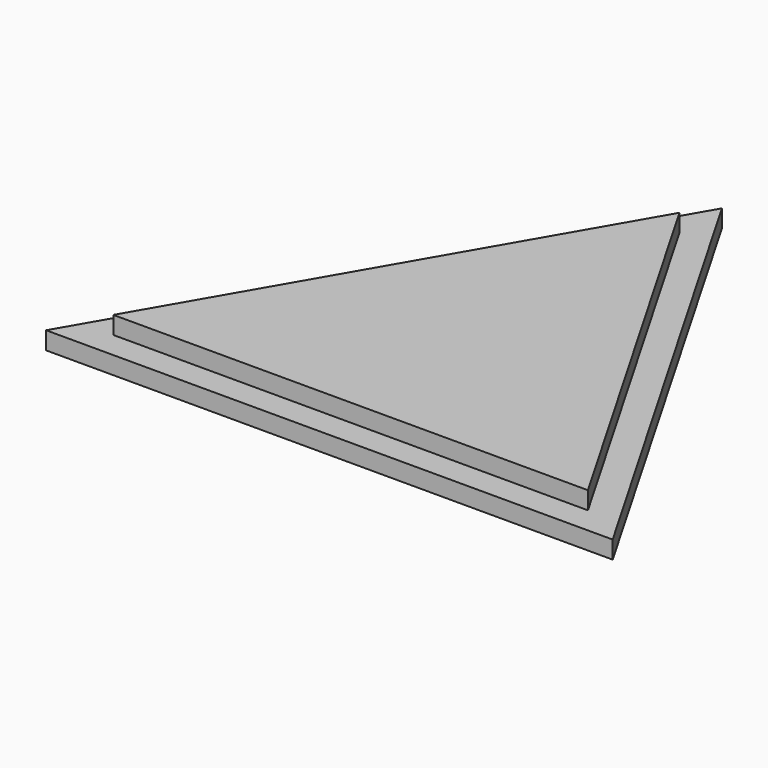
from build123d import *

# Parameters (mm, degrees)
F1_DEPTH = 4
F2_DEPTH = 4
F3_R     = 0.3756576168
F3_R_2   = 0.1964100376
F4_DEPTH = 3
F3_R_3   = 0.635
F3_R_4   = 1.048986259
F5_DEPTH = 2
F3_R_5   = 0.6555251964
F6_DEPTH = 3.5
F7_DEPTH = 2
F8_SCALE = 1.05


with BuildPart() as f1:
    # F0 (on Top) → F1 (new body)
    with BuildSketch(Plane.XY):
        Polygon((-58.909031195, -0.8922100489), (-5.2926484686, -0.8922100489), (-32.1008398318, 45.5409394512), align=None)
        Polygon((-53.8927929356, 1.9193515182), (-32.0291238777, 39.7883371663), (-10.1654548198, 1.9193515182), align=None, mode=Mode.SUBTRACT)
    extrude(amount=F1_DEPTH)

    # F0 (on Top) → F2 (join)
    with BuildSketch(Plane.XY):
        Polygon((-10.1654548198, 1.9193515182), (-32.0291238777, 39.7883371663), (-53.8927929356, 1.9193515182), align=None)
    extrude(amount=F2_DEPTH)

    # F3 (on Top) → F4 (cut)
    with BuildSketch(Plane.XY):
        with BuildLine():
            Line((-32.1544126805, 22.79387742), (-28.472637414, 24.3459273728))
            Line((-28.472637414, 24.3459273728), (-25.8817355115, 25.4381203734))
            Line((-25.8817355115, 25.4381203734), (-29.5555517077, 25.3282375634))
            Line((-29.5555517077, 25.3282375634), (-31.7658662192, 23.532875228))
            Line((-31.7658662192, 23.532875228), (-31.9630217953, 23.3727325453))
            Line((-31.9630217953, 23.3727325453), (-32.3252464874, 23.0785099061))
            ThreePointArc((-32.3252464874, 23.0785099061), (-32.2297356146, 22.9422519708), (-32.1544126805, 22.79387742))
        make_face()
        with BuildLine():
            Line((-34.0057883513, 20.8848746316), (-34.1387262546, 20.6679213456))
            ThreePointArc((-34.1387262546, 20.6679213456), (-32.0514246745, 20.8574778507), (-31.4131536576, 22.853816916))
            Line((-31.4131536576, 22.853816916), (-31.6575446537, 22.7846140185))
            ThreePointArc((-31.6575446537, 22.7846140185), (-32.2048998604, 21.0600060492), (-34.0057883513, 20.8848746316))
        make_face()
        with BuildLine():
            ThreePointArc((-34.2945511212, 23.9122157523), (-35.1344997917, 22.3095710749), (-34.2484357054, 20.7319544656))
            Line((-34.2484357054, 20.7319544656), (-34.1157180625, 20.9485482888))
            ThreePointArc((-34.1157180625, 20.9485482888), (-34.8805480058, 22.314786884), (-34.1530641128, 23.7012716212))
            Line((-34.1530641128, 23.7012716212), (-34.2945511212, 23.9122157523))
        make_face()
        with BuildLine():
            ThreePointArc((-33.7266721424, 23.9053636573), (-32.7631473798, 23.9095721193), (-31.9630217953, 23.3727325453))
            Line((-31.9630217953, 23.3727325453), (-31.7658662192, 23.532875228))
            ThreePointArc((-31.7658662192, 23.532875228), (-32.6897138861, 24.1527254084), (-33.8022268728, 24.147866199))
            Line((-33.8022268728, 24.147866199), (-33.7266721424, 23.9053636573))
        make_face()
        Polygon((-37.439212203, 29.1254520416), (-36.7691402524, 28.0427267223), (-36.1357294023, 28.0589684844), (-33.8941096292, 23.6325567007), (-33.8255574097, 23.6672728586), (-34.6282780244, 25.484751086), (-35.4721397161, 27.3953787982), (-34.9364497739, 27.0802669947), (-35.5669371784, 28.8410577923), align=None)
        Polygon((-40.1023184333, 10.9354004686), (-40.0357920725, 11.0439708027), (-34.1387262546, 20.6679213456), (-34.0057883513, 20.8848746316), (-33.7592028081, 21.2872996926), (-33.8674906086, 21.3536529312), (-34.1157180625, 20.9485482888), (-34.2484357054, 20.7319544656), (-40.1430096601, 11.1120706175), (-40.2094110163, 11.0037042896), (-40.3252987546, 10.814576697), (-40.2170109542, 10.7482234584), align=None)
        with BuildLine():
            Line((-21.8085683814, 13.9872856063), (-19.8589176688, 18.7007068296))
            Line((-19.8589176688, 18.7007068296), (-19.9405216036, 18.8356845341))
            Line((-19.9405216036, 18.8356845341), (-21.924688319, 14.0388183843))
            ThreePointArc((-21.924688319, 14.0388183843), (-22.3258071802, 14.163131996), (-22.7426976389, 14.2136548644))
            Line((-22.7426976389, 14.2136548644), (-22.7465879873, 14.0867144643))
            ThreePointArc((-22.7465879873, 14.0867144643), (-21.8982425542, 13.8889683334), (-21.1922032459, 13.3787703315))
            Line((-21.1922032459, 13.3787703315), (-21.098991902, 13.4650295072))
            ThreePointArc((-21.098991902, 13.4650295072), (-21.4289470838, 13.75989762), (-21.8085683814, 13.9872856063))
        make_face()
        with BuildLine():
            Line((-23.5027573383, 13.6224841241), (-23.449371184, 13.4871852627))
            ThreePointArc((-23.449371184, 13.4871852627), (-21.1355854297, 12.2969895142), (-22.6179189393, 10.1585653741))
            Line((-22.6179189393, 10.1585653741), (-22.6014117467, 10.014054558))
            ThreePointArc((-22.6014117467, 10.014054558), (-20.9944706596, 12.3322384151), (-23.5027573383, 13.6224841241))
        make_face()
        with BuildLine():
            Line((-24.4494511051, 12.4434589257), (-24.5869057472, 12.4910203045))
            ThreePointArc((-24.5869057472, 12.4910203045), (-24.5014237549, 11.0579440906), (-23.4276409497, 10.1050510783))
            Line((-23.4276409497, 10.1050510783), (-23.3800795709, 10.2425057204))
            ThreePointArc((-23.3800795709, 10.2425057204), (-24.3705976719, 11.1215082267), (-24.4494511051, 12.4434589257))
        make_face()
        with BuildLine():
            Line((-22.9241548234, 11.089149363), (-23.23867048, 8.8318424018))
            Line((-23.23867048, 8.8318424018), (-23.3258662152, 8.2060308217))
            Line((-23.3258662152, 8.2060308217), (-23.0312290048, 8.1649783564))
            Line((-23.0312290048, 8.1649783564), (-22.8142887354, 8.1347515807))
            Line((-22.8142887354, 8.1347515807), (-22.8142887354, 11.0815322095))
            ThreePointArc((-22.8142887354, 11.0815322095), (-22.8693536478, 11.0834387808), (-22.9241548234, 11.089149363))
        make_face()
        with Locations((-25.8885102101, 12.9413950747)):
            Circle(F3_R)
        with Locations((-25.8885102101, 12.9413950747)):
            Circle(F3_R_2, mode=Mode.SUBTRACT)
        with BuildLine():
            Line((-39.7208541944, 9.6656456843), (-39.6032555968, 9.6175831845))
            ThreePointArc((-39.6032555968, 9.6175831845), (-39.5758973979, 10.4046540513), (-40.0357920725, 11.0439708027))
            Line((-40.0357920725, 11.0439708027), (-40.1023184333, 10.9354004686))
            ThreePointArc((-40.1023184333, 10.9354004686), (-39.6966188641, 10.3651043607), (-39.7208541944, 9.6656456843))
        make_face()
        with BuildLine():
            Line((-39.6686708723, 9.4744095773), (-29.9092287895, 5.4857295025))
            ThreePointArc((-29.9092287895, 5.4857295025), (-28.732106837, 5.029867848), (-29.8433309183, 5.6287058731))
            Line((-29.8433309183, 5.6287058731), (-39.6032555968, 9.6175831845))
            Line((-39.6032555968, 9.6175831845), (-39.7208541944, 9.6656456843))
            Line((-39.7208541944, 9.6656456843), (-39.8995765777, 9.7386894509))
            Line((-39.8995765777, 9.7386894509), (-39.9590791965, 9.5930993432))
            Line((-39.9590791965, 9.5930993432), (-39.786962426, 9.5227552879))
            Line((-39.786962426, 9.5227552879), (-39.6686708723, 9.4744095773))
        make_face()
        Polygon((-46.1389445683, 15.3457269633), (-41.6457996173, 10.8674371808), (-41.5557258141, 10.7776611783), (-41.3976554127, 10.6201133869), (-41.3080016721, 10.7100645225), (-41.4657952315, 10.8673363872), (-41.555897981, 10.9571412404), (-46.0714399815, 15.4577540234), align=None)
        with BuildLine():
            ThreePointArc((-40.1430096601, 11.1120706175), (-40.8743929691, 11.2620400817), (-41.555897981, 10.9571412404))
            Line((-41.555897981, 10.9571412404), (-41.4657952315, 10.8673363872))
            ThreePointArc((-41.4657952315, 10.8673363872), (-40.8593552693, 11.1359271179), (-40.2094110163, 11.0037042896))
            Line((-40.2094110163, 11.0037042896), (-40.1430096601, 11.1120706175))
        make_face()
        with BuildLine():
            ThreePointArc((-41.6457996173, 10.8674371808), (-41.4432213106, 9.0553707225), (-39.6686708723, 9.4744095773))
            Line((-39.6686708723, 9.4744095773), (-39.786962426, 9.5227552879))
            ThreePointArc((-39.786962426, 9.5227552879), (-41.3729906341, 9.1612522684), (-41.5557258141, 10.7776611783))
            Line((-41.5557258141, 10.7776611783), (-41.6457996173, 10.8674371808))
        make_face()
    extrude(amount=F4_DEPTH, mode=Mode.SUBTRACT)

    # F3 (on Top) → F5 (cut)
    with BuildSketch(Plane.XY):
        with BuildLine():
            Line((-23.3800795709, 10.2425057204), (-23.4276409497, 10.1050510783))
            Line((-23.4276409497, 10.1050510783), (-24.2343964016, 7.7734895301))
            Line((-24.2343964016, 7.7734895301), (-23.23867048, 8.8318424018))
            Line((-23.23867048, 8.8318424018), (-22.9241548234, 11.089149363))
            ThreePointArc((-22.9241548234, 11.089149363), (-23.0002677721, 11.1035594813), (-23.074619957, 11.1252985032))
            Line((-23.074619957, 11.1252985032), (-23.3800795709, 10.2425057204))
        make_face()
        with BuildLine():
            ThreePointArc((-22.7239352236, 11.0866759389), (-22.769038832, 11.0828191821), (-22.8142887354, 11.0815322095))
            Line((-22.8142887354, 11.0815322095), (-22.8142887354, 8.1347515807))
            Line((-22.8142887354, 8.1347515807), (-23.0312290048, 8.1649783564))
            Line((-23.0312290048, 8.1649783564), (-23.1564361602, 6.0221981257))
            Line((-23.1564361602, 6.0221981257), (-22.3820121472, 8.0933393826))
            Line((-22.3820121472, 8.0933393826), (-22.6014117467, 10.014054558))
            Line((-22.6014117467, 10.014054558), (-22.6179189393, 10.1585653741))
            Line((-22.6179189393, 10.1585653741), (-22.7239352236, 11.0866759389))
        make_face()
        with BuildLine():
            Line((-25.4247522826, 12.7809278391), (-24.5869057472, 12.4910203045))
            Line((-24.5869057472, 12.4910203045), (-24.4494511051, 12.4434589257))
            Line((-24.4494511051, 12.4434589257), (-23.5666583224, 12.1379993118))
            ThreePointArc((-23.5666583224, 12.1379993118), (-23.4705773692, 12.3283537562), (-23.3274192063, 12.4863794012))
            Line((-23.3274192063, 12.4863794012), (-24.8178424468, 14.254423858))
            Line((-24.8178424468, 14.254423858), (-25.5783880562, 13.3217178307))
            ThreePointArc((-25.5783880562, 13.3217178307), (-25.4164550768, 13.0755036136), (-25.4247522826, 12.7809278391))
        make_face()
        with BuildLine():
            ThreePointArc((-41.5557258141, 10.7776611783), (-41.3729906341, 9.1612522684), (-39.786962426, 9.5227552879))
            Line((-39.786962426, 9.5227552879), (-39.9590791965, 9.5930993432))
            Line((-39.9590791965, 9.5930993432), (-39.8995765777, 9.7386894509))
            Line((-39.8995765777, 9.7386894509), (-39.7208541944, 9.6656456843))
            ThreePointArc((-39.7208541944, 9.6656456843), (-39.6966188641, 10.3651043607), (-40.1023184333, 10.9354004686))
            Line((-40.1023184333, 10.9354004686), (-40.2170109542, 10.7482234584))
            Line((-40.2170109542, 10.7482234584), (-40.3252987546, 10.814576697))
            Line((-40.3252987546, 10.814576697), (-40.2094110163, 11.0037042896))
            ThreePointArc((-40.2094110163, 11.0037042896), (-40.8593552693, 11.1359271179), (-41.4657952315, 10.8673363872))
            Line((-41.4657952315, 10.8673363872), (-41.3080016721, 10.7100645225))
            Line((-41.3080016721, 10.7100645225), (-41.3976554127, 10.6201133869))
            Line((-41.3976554127, 10.6201133869), (-41.5557258141, 10.7776611783))
        make_face()
        with Locations((-40.7416149974, 10.0511629134)):
            Circle(F3_R_3, mode=Mode.SUBTRACT)
        with BuildLine():
            Line((-33.7592028081, 21.2872996926), (-34.0057883513, 20.8848746316))
            ThreePointArc((-34.0057883513, 20.8848746316), (-32.2048998604, 21.0600060492), (-31.6575446537, 22.7846140185))
            Line((-31.6575446537, 22.7846140185), (-32.1065527673, 22.657470781))
            ThreePointArc((-32.1065527673, 22.657470781), (-32.1211502555, 22.7051429275), (-32.1377552743, 22.7521534961))
            Line((-32.1377552743, 22.7521534961), (-27.2637233138, 24.5908666402))
            Line((-27.2637233138, 24.5908666402), (-28.472637414, 24.3459273728))
            Line((-28.472637414, 24.3459273728), (-32.1544126805, 22.79387742))
            ThreePointArc((-32.1544126805, 22.79387742), (-32.2297356146, 22.9422519708), (-32.3252464874, 23.0785099061))
            Line((-32.3252464874, 23.0785099061), (-31.9630217953, 23.3727325453))
            ThreePointArc((-31.9630217953, 23.3727325453), (-32.7631473798, 23.9095721193), (-33.7266721424, 23.9053636573))
            Line((-33.7266721424, 23.9053636573), (-33.5878589801, 23.4598251125))
            ThreePointArc((-33.5878589801, 23.4598251125), (-33.6511828612, 23.4380998169), (-33.7131678459, 23.4128062592))
            Line((-33.7131678459, 23.4128062592), (-33.8255574097, 23.6672728586))
            Line((-33.8255574097, 23.6672728586), (-33.8941096292, 23.6325567007))
            Line((-33.8941096292, 23.6325567007), (-33.7693483742, 23.3861970389))
            ThreePointArc((-33.7693483742, 23.3861970389), (-33.832338615, 23.3518441558), (-33.8931166689, 23.3137138638))
            Line((-33.8931166689, 23.3137138638), (-34.1530641128, 23.7012716212))
            ThreePointArc((-34.1530641128, 23.7012716212), (-34.8805480058, 22.314786884), (-34.1157180625, 20.9485482888))
            Line((-34.1157180625, 20.9485482888), (-33.8674906086, 21.3536529312))
            Line((-33.8674906086, 21.3536529312), (-33.7592028081, 21.2872996926))
        make_face()
        with Locations((-33.2380506147, 22.3370705583)):
            Circle(F3_R_4, mode=Mode.SUBTRACT)
    extrude(amount=F5_DEPTH, mode=Mode.SUBTRACT)

    # F3 (on Top) → F6 (cut)
    with BuildSketch(Plane.XY):
        with Locations((-25.8885102101, 12.9413950747)):
            Circle(F3_R_2)
        with Locations((-22.8142887354, 11.8776680902)):
            Circle(F3_R_5)
        with BuildLine():
            Line((-24.8178424468, 14.254423858), (-23.3274192063, 12.4863794012))
            ThreePointArc((-23.3274192063, 12.4863794012), (-23.2223223597, 12.5612914528), (-23.106502358, 12.6182378298))
            Line((-23.106502358, 12.6182378298), (-23.449371184, 13.4871852627))
            Line((-23.449371184, 13.4871852627), (-23.5027573383, 13.6224841241))
            Line((-23.5027573383, 13.6224841241), (-24.0212455392, 14.9365114048))
            Line((-24.0212455392, 14.9365114048), (-25.1908730716, 14.696938917))
            Line((-25.1908730716, 14.696938917), (-24.8178424468, 14.254423858))
        make_face()
        with BuildLine():
            Line((-33.5878589801, 23.4598251125), (-33.7266721424, 23.9053636573))
            Line((-33.7266721424, 23.9053636573), (-33.8022268728, 24.147866199))
            Line((-33.8022268728, 24.147866199), (-34.666351974, 26.9213858992))
            Line((-34.666351974, 26.9213858992), (-34.9364497739, 27.0802669947))
            Line((-34.9364497739, 27.0802669947), (-35.4721397161, 27.3953787982))
            Line((-35.4721397161, 27.3953787982), (-34.6282780244, 25.484751086))
            Line((-34.6282780244, 25.484751086), (-33.8255574097, 23.6672728586))
            Line((-33.8255574097, 23.6672728586), (-33.7131678459, 23.4128062592))
            ThreePointArc((-33.7131678459, 23.4128062592), (-33.6511828612, 23.4380998169), (-33.5878589801, 23.4598251125))
        make_face()
        with BuildLine():
            Line((-31.6575446537, 22.7846140185), (-31.4131536576, 22.853816916))
            Line((-31.4131536576, 22.853816916), (-27.7420189232, 23.893352598))
            Line((-27.7420189232, 23.893352598), (-27.2637233138, 24.5908666402))
            Line((-27.2637233138, 24.5908666402), (-32.1377552743, 22.7521534961))
            ThreePointArc((-32.1377552743, 22.7521534961), (-32.1211502555, 22.7051429275), (-32.1065527673, 22.657470781))
            Line((-32.1065527673, 22.657470781), (-31.6575446537, 22.7846140185))
        make_face()
        with Locations((-33.2380506147, 22.3370705583)):
            Circle(F3_R_4)
        with BuildLine():
            Line((-37.0600149035, 28.0352681875), (-34.2945511212, 23.9122157523))
            Line((-34.2945511212, 23.9122157523), (-34.1530641128, 23.7012716212))
            Line((-34.1530641128, 23.7012716212), (-33.8931166689, 23.3137138638))
            ThreePointArc((-33.8931166689, 23.3137138638), (-33.832338615, 23.3518441558), (-33.7693483742, 23.3861970389))
            Line((-33.7693483742, 23.3861970389), (-33.8941096292, 23.6325567007))
            Line((-33.8941096292, 23.6325567007), (-36.1357294023, 28.0589684844))
            Line((-36.1357294023, 28.0589684844), (-36.7691402524, 28.0427267223))
            Line((-36.7691402524, 28.0427267223), (-37.0600149035, 28.0352681875))
        make_face()
        with Locations((-40.7416149974, 10.0511629134)):
            Circle(F3_R_3)
    extrude(amount=F6_DEPTH, mode=Mode.SUBTRACT)

    # F0 (on Top) → F7 (join)
    with BuildSketch(Plane.XY):
        Polygon((-64.1051836177, -3.8922100489), (-0.0964960459, -3.8922100489), (-32.1008398318, 51.5409394512), align=None)
        Polygon((-32.1008398318, 45.5409394512), (-5.2926484686, -0.8922100489), (-58.909031195, -0.8922100489), align=None, mode=Mode.SUBTRACT)
    extrude(amount=F7_DEPTH)


with BuildPart() as f1_1:
    # F8: moved
    add(f1.part.scale(F8_SCALE).moved(Location((3.2052591809, 0.1946105024, 0))))


solid = f1_1.part
